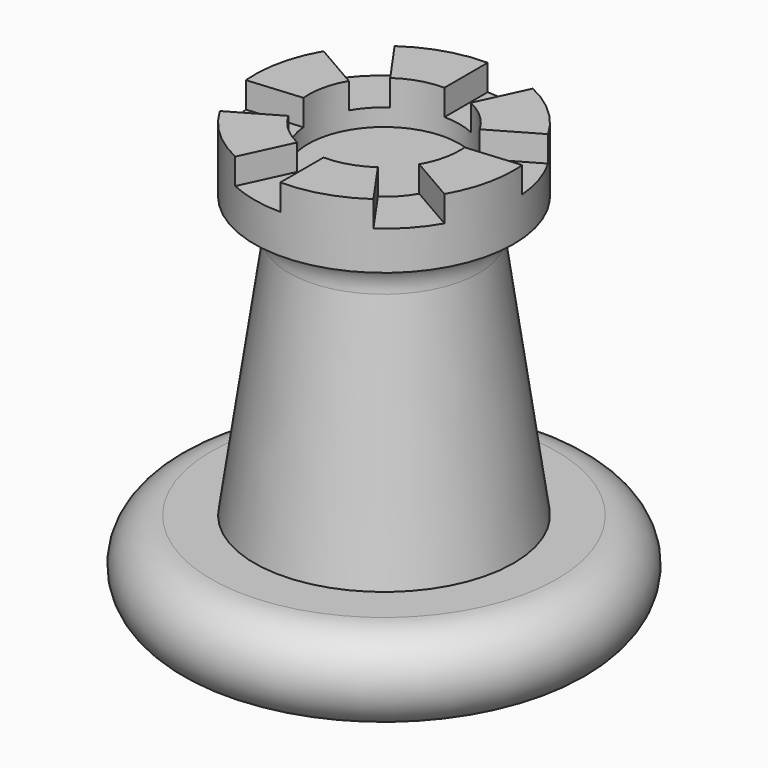
from build123d import *

# Parameters (mm, degrees)
SKETCH004_R        = 4
SKETCH001_R        = 6
SKETCH002_R        = 6
EXTRUDE002_DEPTH   = 3
SKETCH005_R        = 3.5
POCKET_DEPTH       = 5
POCKET001_DEPTH    = 1.2
POLARPATTERN_COUNT = 6
FILLET_R           = 1.5


with BuildPart() as revolution:
    # Sketch006 → Revolution (revolve)
    with BuildSketch(Plane.XZ):
        with BuildLine():
            Line((0, 0), (8, 0))
            ThreePointArc((8, 0), (10, 2), (8, 4))
            Line((8, 4), (0, 4))
            Line((0, 4), (0, 0))
        make_face()
    revolve(axis=Axis((0, 0, 0), (0, 0, 1)))


with BuildPart() as loft_body:
    # Sketch004 → Loft section 0
    with BuildSketch(Plane.XY.offset(18)):
        Circle(SKETCH004_R)
    # Sketch001 → Loft section 1
    with BuildSketch(Plane.XY.offset(4)):
        Circle(SKETCH001_R)
    loft()


with BuildPart() as fillet_body:
    # Sketch002 → Extrude002 (new body)
    with BuildSketch(Plane.XY.offset(17)):
        Circle(SKETCH002_R)
    extrude(amount=EXTRUDE002_DEPTH)

    # Sketch005 → Pocket (cut)
    with BuildSketch(Plane.XY.offset(20)):
        Circle(SKETCH005_R)
    extrude(amount=-POCKET_DEPTH, mode=Mode.SUBTRACT)

    # Sketch → Pocket001 (cut)
    with BuildSketch(Plane.XY.offset(20)):
        with BuildLine():
            ThreePointArc((2.53571, 5.437847), (1.298638, 5.857776), (0, 6))
            Line((0, 0), (0, 6))
            Line((0, 0), (2.53571, 5.437847))
        make_face()
    pocket001 = extrude(amount=-POCKET001_DEPTH, mode=Mode.SUBTRACT)

    # PolarPattern: Pocket001 ×6 about axis
    polarpattern_axis = Axis((0, 0, 20), (0, 0, 1))
    for i in range(1, POLARPATTERN_COUNT):
        add(pocket001.rotate(polarpattern_axis, i * 360 / POLARPATTERN_COUNT), mode=Mode.SUBTRACT)

    # Fusion: union Revolution, Loft body
    add(revolution.part)
    add(loft_body.part)

    # Fillet
    fillet_edges = [fillet_body.edges().sort_by_distance(p)[0] for p in [
        (-4.142857, 0, 17),
    ]]
    fillet(fillet_edges, radius=FILLET_R)


solid = fillet_body.part
